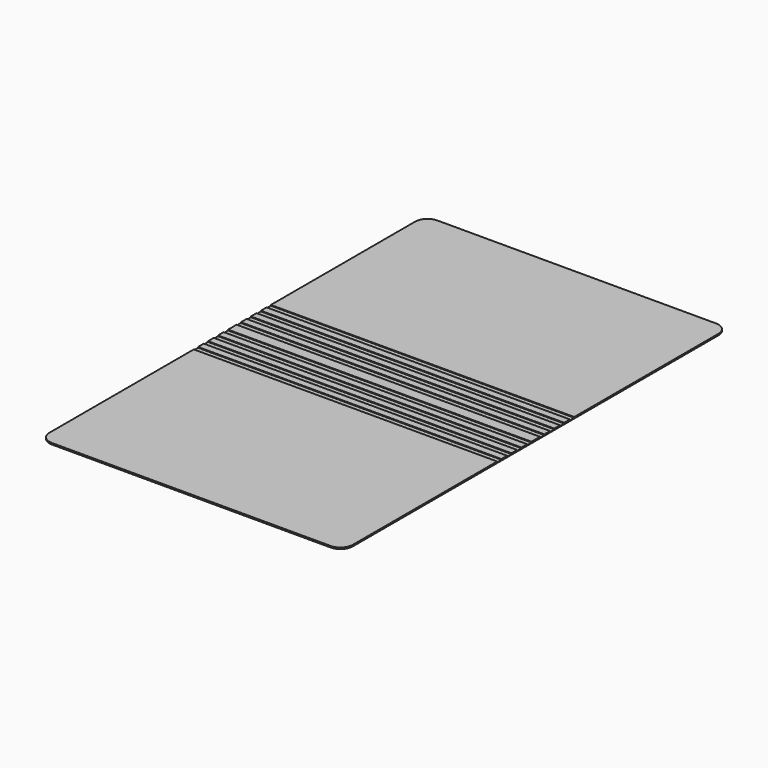
from build123d import *

# Parameters (mm, degrees)
F1_DEPTH = 0.2
F3_DEPTH = 0.4
F2_W     = 85
F2_H     = 1.5
F4_DEPTH = 0.2


with BuildPart() as f1:
    # F0 (on Top) → F1 (new body)
    with BuildSketch(Plane.XY):
        with BuildLine():
            ThreePointArc((42.5, 64), (41.474874, 66.474874), (39, 67.5))
            Line((39, 67.5), (-39, 67.5))
            ThreePointArc((-39, 67.5), (-41.474874, 66.474874), (-42.5, 64))
            Line((-42.5, 64), (-42.5, -64))
            ThreePointArc((-42.5, -64), (-41.474874, -66.474874), (-39, -67.5))
            Line((-39, -67.5), (39, -67.5))
            ThreePointArc((39, -67.5), (41.474874, -66.474874), (42.5, -64))
            Line((42.5, -64), (42.5, 64))
        make_face()
    extrude(amount=F1_DEPTH)

    # F0 (on Top) → F3 (join)
    with BuildSketch(Plane.XY):
        with BuildLine():
            ThreePointArc((42.5, 64), (41.474874, 66.474874), (39, 67.5))
            Line((39, 67.5), (-39, 67.5))
            ThreePointArc((-39, 67.5), (-41.474874, 66.474874), (-42.5, 64))
            Line((-42.5, 64), (-42.5, -64))
            ThreePointArc((-42.5, -64), (-41.474874, -66.474874), (-39, -67.5))
            Line((-39, -67.5), (39, -67.5))
            ThreePointArc((39, -67.5), (41.474874, -66.474874), (42.5, -64))
            Line((42.5, -64), (42.5, 64))
        make_face()
    extrude(amount=F3_DEPTH)

    # F2 (on face) → F4 (cut, through all)
    with BuildSketch(Plane.XY.offset(0.2)):
        with Locations((0, 12.75)):
            Rectangle(F2_W, F2_H)
        with Locations((0, 9.25)):
            Rectangle(F2_W, F2_H)
        with Locations((0, 5.75)):
            Rectangle(F2_W, F2_H)
        with Locations((0, -12.75)):
            Rectangle(F2_W, F2_H)
        with Locations((0, -9.25)):
            Rectangle(F2_W, F2_H)
        with Locations((0, -5.75)):
            Rectangle(F2_W, F2_H)
        with Locations((0, 2.25)):
            Rectangle(F2_W, F2_H)
        with Locations((0, -2.25)):
            Rectangle(F2_W, F2_H)
    extrude(amount=F4_DEPTH, mode=Mode.SUBTRACT)


solid = f1.part
